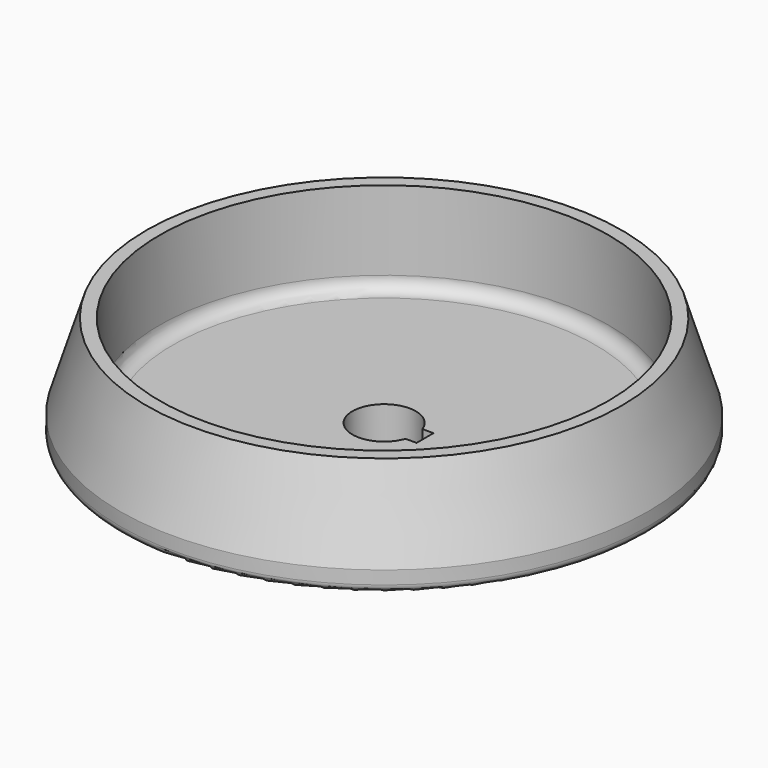
from build123d import *

# Parameters (mm, degrees)
F3_DEPTH = 370.001


with BuildPart() as f1:
    # F0 (on Front) → F1 (revolve)
    with BuildSketch(Plane.XZ):
        with BuildLine():
            Line((0, -53.947353), (0, -423.947353))
            Line((0, -423.947353), (270, -423.947353))
            Line((270, -423.947353), (270, -333.947353))
            Line((270, -333.947353), (200, -333.947353))
            Line((200, -333.947353), (200, -183.947353))
            Line((200, -183.947353), (270, -183.947353))
            Line((270, -183.947353), (270, -103.947353))
            Line((270, -103.947353), (970, -103.947353))
            ThreePointArc((970, -103.947353), (991.213203, -95.160556), (1000, -73.947353))
            Line((1000, -73.947353), (1000, -23.947353))
            Line((1000, -23.947353), (900, 296.052647))
            Line((900, 296.052647), (850, 296.052647))
            Line((850, 296.052647), (850, -3.947353))
            ThreePointArc((850, -3.947353), (835.355339, -39.302692), (800, -53.947353))
            Line((800, -53.947353), (0, -53.947353))
        make_face()
    revolve(axis=Axis((0, 0, -238.947353), (0, 0, -1)))

    # F2 (on face) → F3 (cut, through all)
    with BuildSketch(Plane.XY.offset(-53.947353)):
        with BuildLine():
            Line((155, 40), (113.137085, 40))
            ThreePointArc((113.137085, 40), (-120, 0), (113.137085, -40))
            Line((113.137085, -40), (155, -40))
            Line((155, -40), (155, 40))
        make_face()
    extrude(amount=-F3_DEPTH, mode=Mode.SUBTRACT)


solid = f1.part
